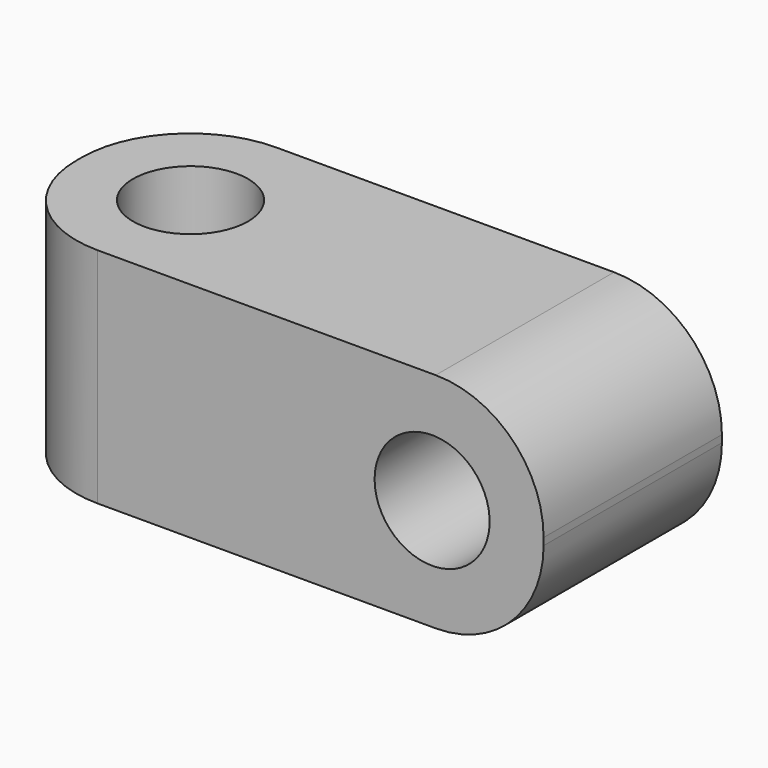
from build123d import *

# Parameters (mm, degrees)
SKETCH_W     = 15.4
SKETCH_H     = 6.2
SKETCH_R     = 1.6
PAD_DEPTH    = 6.2
SKETCH001_R  = 1.6
POCKET_DEPTH = 6.201
FILLET_R     = 3
FILLET001_R  = 3


with BuildPart() as part:
    # Sketch → Pad (new body)
    with BuildSketch(Plane.XY):
        with Locations((4.6, 0)):
            Rectangle(SKETCH_W, SKETCH_H)
        Circle(SKETCH_R, mode=Mode.SUBTRACT)
    extrude(amount=PAD_DEPTH)

    # Sketch001 (on Face1 of Pad) → Pocket (cut, through all)
    with BuildSketch(Plane(origin=(0, 3.1, 0), x_dir=(-1, 0, 0), z_dir=(0, 1, 0))):
        with Locations((-9.2, 3.1)):
            Circle(SKETCH001_R)
    extrude(amount=-POCKET_DEPTH, mode=Mode.SUBTRACT)

    # Fillet
    fillet_edges = [part.edges().sort_by_distance(p)[0] for p in [
        (-3.1, -3.1, 3.1),
        (-3.1, 3.1, 3.1),
    ]]
    fillet(fillet_edges, radius=FILLET_R)

    # Fillet001
    fillet001_edges = [part.edges().sort_by_distance(p)[0] for p in [
        (12.3, 0, 6.2),
        (12.3, 0, 0),
    ]]
    fillet(fillet001_edges, radius=FILLET001_R)


solid = part.part
